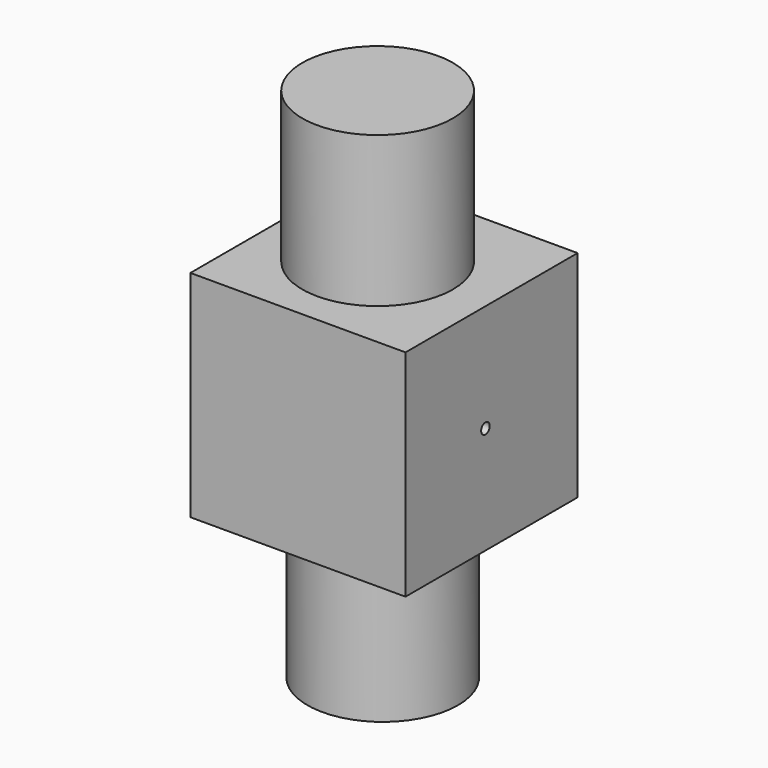
from build123d import *

# Parameters (mm, degrees)
F0_W     = 100
F0_H     = 100
F1_DEPTH = 100
F2_R     = 35
F3_DEPTH = 70
F4_R     = 35
F5_DEPTH = 70
F7_D     = 5


with BuildPart() as f1:
    # F0 (on Front) → F1 (new body)
    with BuildSketch(Plane.XZ):
        with Locations((50, 50)):
            Rectangle(F0_W, F0_H)
    extrude(amount=F1_DEPTH)

    # F2 (on face) → F3 (join)
    with BuildSketch(Plane.XY.offset(100)):
        with Locations((47.518581, -50.615475)):
            Circle(F2_R)
    extrude(amount=F3_DEPTH)

    # F4 (on face) → F5 (join)
    with BuildSketch(Plane(origin=(0, 0, 0), x_dir=(1, 0, 0), z_dir=(0, 0, -1))):
        with Locations((49.175262, 49.722657)):
            Circle(F4_R)
    extrude(amount=F5_DEPTH)

    # F7 (through all)
    with Locations(Plane.YZ.offset(100)):
        with Locations((-53.554386, 50)):
            Hole(F7_D / 2)


solid = f1.part
